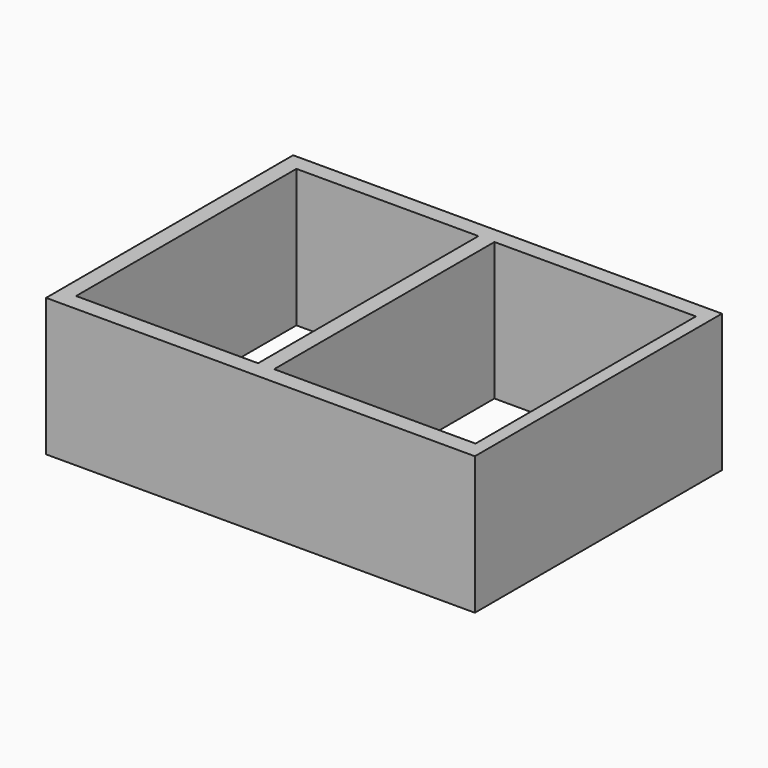
from build123d import *

# Parameters (mm, degrees)
F0_W     = 3.581136
F0_H     = 76.146152
F0_W_2   = 4.429294
F1_DEPTH = 38.1


with BuildPart() as f1:
    # F0 (on Top) → F1 (new body)
    with BuildSketch(Plane.XY):
        Polygon((-50.32431, 39.298199), (-54.847848, 39.298199), (-54.847848, -41.559964), (-50.32431, -41.559964), (-50.32431, -36.847953), align=None)
        with Locations((61.915867, 1.225123)):
            Rectangle(F0_W, F0_H)
        Polygon((63.706435, -41.559964), (63.706435, -36.847953), (60.125299, -36.847953), (4.429294, -36.847953), (0, -36.847953), (-50.32431, -36.847953), (-50.32431, -41.559964), align=None)
        with Locations((2.214647, 1.225123)):
            Rectangle(F0_W_2, F0_H)
        Polygon((63.706435, 43.821733), (-54.847848, 43.821733), (-54.847848, 39.298199), (-50.32431, 39.298199), (0, 39.298199), (4.429294, 39.298199), (60.125299, 39.298199), (63.706435, 39.298199), align=None)
    extrude(amount=F1_DEPTH)


solid = f1.part
